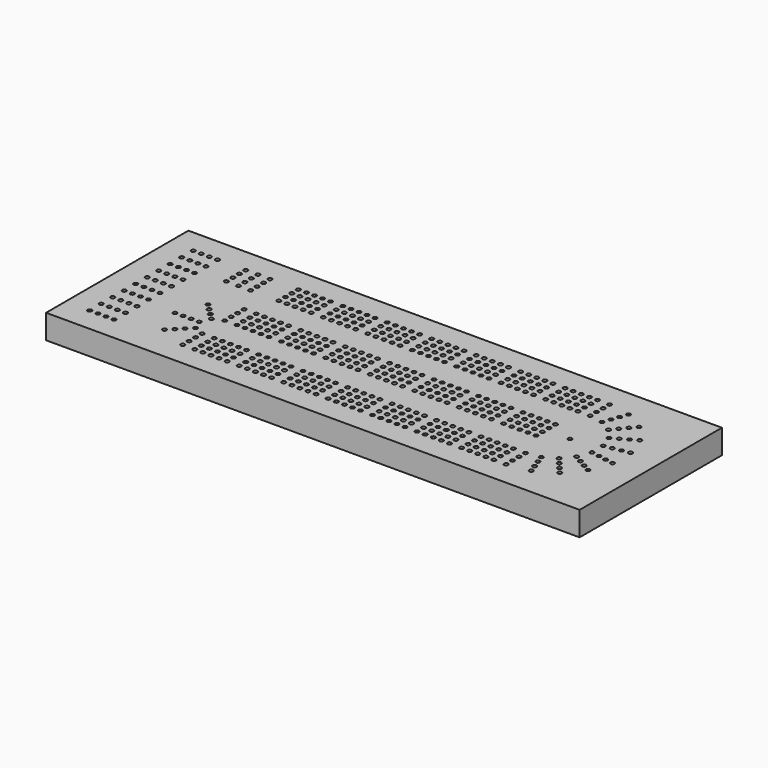
from build123d import *

# Parameters (mm, degrees)
F0_W     = 419.1
F0_H     = 139.7
F1_DEPTH = 19.05
F2_R     = 1.5875
F3_DEPTH = 12.7


with BuildPart() as f1:
    # F0 (on Top) → F1 (new body)
    with BuildSketch(Plane.XY):
        with Locations((209.55, 69.85)):
            Rectangle(F0_W, F0_H)
    extrude(amount=F1_DEPTH)

    # F2 (on face) → F3 (cut)
    with BuildSketch(Plane.XY.offset(19.05)):
        with BuildLine():
            ThreePointArc((20.6375, 120.65), (20.172532, 121.772532), (19.05, 122.2375))
            Line((19.05, 122.2375), (19.05, 120.65))
            Line((19.05, 120.65), (17.4625, 120.65))
            ThreePointArc((17.4625, 120.65), (19.05, 119.0625), (20.6375, 120.65))
        make_face()
        with BuildLine():
            Line((19.05, 120.65), (19.05, 122.2375))
            ThreePointArc((19.05, 122.2375), (17.927468, 121.772532), (17.4625, 120.65))
            Line((17.4625, 120.65), (19.05, 120.65))
        make_face()
        with Locations((19.05, 109.361111)):
            Circle(F2_R)
        with Locations((19.05, 98.072222)):
            Circle(F2_R)
        with Locations((19.05, 86.783333)):
            Circle(F2_R)
        with Locations((19.05, 75.494444)):
            Circle(F2_R)
        with Locations((19.05, 64.205556)):
            Circle(F2_R)
        with Locations((19.05, 52.916667)):
            Circle(F2_R)
        with Locations((19.05, 41.627778)):
            Circle(F2_R)
        with Locations((19.05, 30.338889)):
            Circle(F2_R)
        with Locations((19.05, 19.05)):
            Circle(F2_R)
        with Locations((25.4, 120.65)):
            Circle(F2_R)
        with Locations((25.4, 109.361111)):
            Circle(F2_R)
        with Locations((25.4, 98.072222)):
            Circle(F2_R)
        with Locations((25.4, 86.783333)):
            Circle(F2_R)
        with Locations((25.4, 75.494444)):
            Circle(F2_R)
        with Locations((25.4, 64.205556)):
            Circle(F2_R)
        with Locations((25.4, 52.916667)):
            Circle(F2_R)
        with Locations((25.4, 41.627778)):
            Circle(F2_R)
        with Locations((25.4, 30.338889)):
            Circle(F2_R)
        with Locations((25.4, 19.05)):
            Circle(F2_R)
        with Locations((31.75, 120.65)):
            Circle(F2_R)
        with Locations((31.75, 109.361111)):
            Circle(F2_R)
        with Locations((31.75, 98.072222)):
            Circle(F2_R)
        with Locations((31.75, 86.783333)):
            Circle(F2_R)
        with Locations((31.75, 75.494444)):
            Circle(F2_R)
        with Locations((31.75, 64.205556)):
            Circle(F2_R)
        with Locations((31.75, 52.916667)):
            Circle(F2_R)
        with Locations((31.75, 41.627778)):
            Circle(F2_R)
        with Locations((31.75, 30.338889)):
            Circle(F2_R)
        with Locations((31.75, 19.05)):
            Circle(F2_R)
        with Locations((38.1, 120.65)):
            Circle(F2_R)
        with Locations((38.1, 109.361111)):
            Circle(F2_R)
        with Locations((38.1, 98.072222)):
            Circle(F2_R)
        with Locations((38.1, 86.783333)):
            Circle(F2_R)
        with Locations((38.1, 75.494444)):
            Circle(F2_R)
        with Locations((38.1, 64.205556)):
            Circle(F2_R)
        with Locations((38.1, 52.916667)):
            Circle(F2_R)
        with Locations((38.1, 41.627778)):
            Circle(F2_R)
        with Locations((38.1, 30.338889)):
            Circle(F2_R)
        with Locations((38.1, 19.05)):
            Circle(F2_R)
        with Locations((60.325, 120.65)):
            Circle(F2_R)
        with Locations((60.325, 114.3)):
            Circle(F2_R)
        with Locations((60.325, 107.95)):
            Circle(F2_R)
        with Locations((60.325, 101.6)):
            Circle(F2_R)
        with Locations((69.85, 120.65)):
            Circle(F2_R)
        with Locations((69.85, 114.3)):
            Circle(F2_R)
        with Locations((69.85, 107.95)):
            Circle(F2_R)
        with Locations((69.85, 101.6)):
            Circle(F2_R)
        with Locations((79.375, 120.65)):
            Circle(F2_R)
        with Locations((79.375, 114.3)):
            Circle(F2_R)
        with Locations((79.375, 107.95)):
            Circle(F2_R)
        with Locations((79.375, 101.6)):
            Circle(F2_R)
        with Locations((101.6, 120.65)):
            Circle(F2_R)
        with Locations((101.6, 114.3)):
            Circle(F2_R)
        with Locations((101.6, 107.95)):
            Circle(F2_R)
        with Locations((101.6, 101.6)):
            Circle(F2_R)
        with Locations((107.95, 120.65)):
            Circle(F2_R)
        with Locations((107.95, 114.3)):
            Circle(F2_R)
        with Locations((107.95, 107.95)):
            Circle(F2_R)
        with Locations((107.95, 101.6)):
            Circle(F2_R)
        with Locations((114.3, 120.65)):
            Circle(F2_R)
        with Locations((114.3, 114.3)):
            Circle(F2_R)
        with Locations((114.3, 107.95)):
            Circle(F2_R)
        with Locations((114.3, 101.6)):
            Circle(F2_R)
        with Locations((120.65, 120.65)):
            Circle(F2_R)
        with Locations((120.65, 114.3)):
            Circle(F2_R)
        with Locations((120.65, 107.95)):
            Circle(F2_R)
        with Locations((120.65, 101.6)):
            Circle(F2_R)
        with Locations((127, 120.65)):
            Circle(F2_R)
        with Locations((127, 114.3)):
            Circle(F2_R)
        with Locations((127, 107.95)):
            Circle(F2_R)
        with Locations((127, 101.6)):
            Circle(F2_R)
        with Locations((149.225, 114.3)):
            Circle(F2_R)
        with Locations((136.525, 107.95)):
            Circle(F2_R)
        with Locations((161.925, 107.95)):
            Circle(F2_R)
        with Locations((149.225, 120.65)):
            Circle(F2_R)
        with Locations((161.925, 114.3)):
            Circle(F2_R)
        with Locations((161.925, 120.65)):
            Circle(F2_R)
        with Locations((142.875, 101.6)):
            Circle(F2_R)
        with Locations((155.575, 107.95)):
            Circle(F2_R)
        with Locations((142.875, 107.95)):
            Circle(F2_R)
        with Locations((155.575, 101.6)):
            Circle(F2_R)
        with Locations((155.575, 114.3)):
            Circle(F2_R)
        with Locations((149.225, 107.95)):
            Circle(F2_R)
        with Locations((149.225, 101.6)):
            Circle(F2_R)
        with Locations((161.925, 101.6)):
            Circle(F2_R)
        with Locations((136.525, 101.6)):
            Circle(F2_R)
        with Locations((155.575, 120.65)):
            Circle(F2_R)
        with Locations((142.875, 114.3)):
            Circle(F2_R)
        with Locations((136.525, 114.3)):
            Circle(F2_R)
        with Locations((142.875, 120.65)):
            Circle(F2_R)
        with Locations((136.525, 120.65)):
            Circle(F2_R)
        with Locations((184.15, 114.3)):
            Circle(F2_R)
        with Locations((171.45, 107.95)):
            Circle(F2_R)
        with Locations((196.85, 107.95)):
            Circle(F2_R)
        with Locations((184.15, 120.65)):
            Circle(F2_R)
        with Locations((196.85, 114.3)):
            Circle(F2_R)
        with Locations((196.85, 120.65)):
            Circle(F2_R)
        with Locations((177.8, 101.6)):
            Circle(F2_R)
        with Locations((190.5, 107.95)):
            Circle(F2_R)
        with Locations((177.8, 107.95)):
            Circle(F2_R)
        with Locations((190.5, 101.6)):
            Circle(F2_R)
        with Locations((190.5, 114.3)):
            Circle(F2_R)
        with Locations((184.15, 107.95)):
            Circle(F2_R)
        with Locations((184.15, 101.6)):
            Circle(F2_R)
        with Locations((196.85, 101.6)):
            Circle(F2_R)
        with Locations((171.45, 101.6)):
            Circle(F2_R)
        with Locations((190.5, 120.65)):
            Circle(F2_R)
        with Locations((177.8, 114.3)):
            Circle(F2_R)
        with Locations((171.45, 114.3)):
            Circle(F2_R)
        with Locations((177.8, 120.65)):
            Circle(F2_R)
        with Locations((171.45, 120.65)):
            Circle(F2_R)
        with Locations((219.075, 114.3)):
            Circle(F2_R)
        with Locations((206.375, 107.95)):
            Circle(F2_R)
        with Locations((231.775, 107.95)):
            Circle(F2_R)
        with Locations((219.075, 120.65)):
            Circle(F2_R)
        with Locations((231.775, 114.3)):
            Circle(F2_R)
        with Locations((231.775, 120.65)):
            Circle(F2_R)
        with Locations((212.725, 101.6)):
            Circle(F2_R)
        with Locations((225.425, 107.95)):
            Circle(F2_R)
        with Locations((212.725, 107.95)):
            Circle(F2_R)
        with Locations((225.425, 101.6)):
            Circle(F2_R)
        with Locations((225.425, 114.3)):
            Circle(F2_R)
        with Locations((219.075, 107.95)):
            Circle(F2_R)
        with Locations((219.075, 101.6)):
            Circle(F2_R)
        with Locations((231.775, 101.6)):
            Circle(F2_R)
        with Locations((206.375, 101.6)):
            Circle(F2_R)
        with Locations((225.425, 120.65)):
            Circle(F2_R)
        with Locations((212.725, 114.3)):
            Circle(F2_R)
        with Locations((206.375, 114.3)):
            Circle(F2_R)
        with Locations((212.725, 120.65)):
            Circle(F2_R)
        with Locations((206.375, 120.65)):
            Circle(F2_R)
        with Locations((254, 114.3)):
            Circle(F2_R)
        with Locations((241.3, 107.95)):
            Circle(F2_R)
        with Locations((266.7, 107.95)):
            Circle(F2_R)
        with Locations((254, 120.65)):
            Circle(F2_R)
        with Locations((266.7, 114.3)):
            Circle(F2_R)
        with Locations((266.7, 120.65)):
            Circle(F2_R)
        with Locations((247.65, 101.6)):
            Circle(F2_R)
        with Locations((260.35, 107.95)):
            Circle(F2_R)
        with Locations((247.65, 107.95)):
            Circle(F2_R)
        with Locations((260.35, 101.6)):
            Circle(F2_R)
        with Locations((260.35, 114.3)):
            Circle(F2_R)
        with Locations((254, 107.95)):
            Circle(F2_R)
        with Locations((254, 101.6)):
            Circle(F2_R)
        with Locations((266.7, 101.6)):
            Circle(F2_R)
        with Locations((241.3, 101.6)):
            Circle(F2_R)
        with Locations((260.35, 120.65)):
            Circle(F2_R)
        with Locations((247.65, 114.3)):
            Circle(F2_R)
        with Locations((241.3, 114.3)):
            Circle(F2_R)
        with Locations((247.65, 120.65)):
            Circle(F2_R)
        with Locations((241.3, 120.65)):
            Circle(F2_R)
        with Locations((288.925, 114.3)):
            Circle(F2_R)
        with Locations((276.225, 107.95)):
            Circle(F2_R)
        with Locations((301.625, 107.95)):
            Circle(F2_R)
        with Locations((288.925, 120.65)):
            Circle(F2_R)
        with Locations((301.625, 114.3)):
            Circle(F2_R)
        with Locations((301.625, 120.65)):
            Circle(F2_R)
        with Locations((282.575, 101.6)):
            Circle(F2_R)
        with Locations((295.275, 107.95)):
            Circle(F2_R)
        with Locations((282.575, 107.95)):
            Circle(F2_R)
        with Locations((295.275, 101.6)):
            Circle(F2_R)
        with Locations((295.275, 114.3)):
            Circle(F2_R)
        with Locations((288.925, 107.95)):
            Circle(F2_R)
        with Locations((288.925, 101.6)):
            Circle(F2_R)
        with Locations((301.625, 101.6)):
            Circle(F2_R)
        with Locations((276.225, 101.6)):
            Circle(F2_R)
        with Locations((295.275, 120.65)):
            Circle(F2_R)
        with Locations((282.575, 114.3)):
            Circle(F2_R)
        with Locations((276.225, 114.3)):
            Circle(F2_R)
        with Locations((282.575, 120.65)):
            Circle(F2_R)
        with Locations((276.225, 120.65)):
            Circle(F2_R)
        with Locations((323.85, 114.3)):
            Circle(F2_R)
        with Locations((311.15, 107.95)):
            Circle(F2_R)
        with Locations((336.55, 107.95)):
            Circle(F2_R)
        with Locations((323.85, 120.65)):
            Circle(F2_R)
        with Locations((336.55, 114.3)):
            Circle(F2_R)
        with Locations((336.55, 120.65)):
            Circle(F2_R)
        with Locations((317.5, 101.6)):
            Circle(F2_R)
        with Locations((330.2, 107.95)):
            Circle(F2_R)
        with Locations((317.5, 107.95)):
            Circle(F2_R)
        with Locations((330.2, 101.6)):
            Circle(F2_R)
        with Locations((330.2, 114.3)):
            Circle(F2_R)
        with Locations((323.85, 107.95)):
            Circle(F2_R)
        with Locations((323.85, 101.6)):
            Circle(F2_R)
        with Locations((336.55, 101.6)):
            Circle(F2_R)
        with Locations((311.15, 101.6)):
            Circle(F2_R)
        with Locations((330.2, 120.65)):
            Circle(F2_R)
        with Locations((317.5, 114.3)):
            Circle(F2_R)
        with Locations((311.15, 114.3)):
            Circle(F2_R)
        with Locations((317.5, 120.65)):
            Circle(F2_R)
        with Locations((311.15, 120.65)):
            Circle(F2_R)
        with Locations((219.075, 66.675)):
            Circle(F2_R)
        with Locations((171.45, 66.675)):
            Circle(F2_R)
        with Locations((155.575, 66.675)):
            Circle(F2_R)
        with Locations((317.5, 66.675)):
            Circle(F2_R)
        with Locations((276.225, 60.325)):
            Circle(F2_R)
        with Locations((266.7, 79.375)):
            Circle(F2_R)
        with Locations((155.575, 60.325)):
            Circle(F2_R)
        with Locations((120.65, 60.325)):
            Circle(F2_R)
        with Locations((260.35, 66.675)):
            Circle(F2_R)
        with Locations((231.775, 60.325)):
            Circle(F2_R)
        with Locations((184.15, 79.375)):
            Circle(F2_R)
        with Locations((330.2, 73.025)):
            Circle(F2_R)
        with Locations((282.575, 73.025)):
            Circle(F2_R)
        with Locations((288.925, 73.025)):
            Circle(F2_R)
        with Locations((120.65, 66.675)):
            Circle(F2_R)
        with Locations((219.075, 60.325)):
            Circle(F2_R)
        with Locations((196.85, 66.675)):
            Circle(F2_R)
        with Locations((142.875, 66.675)):
            Circle(F2_R)
        with Locations((330.2, 60.325)):
            Circle(F2_R)
        with Locations((295.275, 79.375)):
            Circle(F2_R)
        with Locations((155.575, 73.025)):
            Circle(F2_R)
        with Locations((206.375, 60.325)):
            Circle(F2_R)
        with Locations((196.85, 73.025)):
            Circle(F2_R)
        with Locations((323.85, 66.675)):
            Circle(F2_R)
        with Locations((276.225, 66.675)):
            Circle(F2_R)
        with Locations((149.225, 66.675)):
            Circle(F2_R)
        with Locations((260.35, 60.325)):
            Circle(F2_R)
        with Locations((196.85, 79.375)):
            Circle(F2_R)
        with Locations((323.85, 60.325)):
            Circle(F2_R)
        with Locations((301.625, 66.675)):
            Circle(F2_R)
        with Locations((149.225, 60.325)):
            Circle(F2_R)
        with Locations((127, 66.675)):
            Circle(F2_R)
        with Locations((101.6, 66.675)):
            Circle(F2_R)
        with Locations((177.8, 60.325)):
            Circle(F2_R)
        with Locations((336.55, 60.325)):
            Circle(F2_R)
        with Locations((288.925, 79.375)):
            Circle(F2_R)
        with Locations((254, 66.675)):
            Circle(F2_R)
        with Locations((206.375, 66.675)):
            Circle(F2_R)
        with Locations((190.5, 66.675)):
            Circle(F2_R)
        with Locations((311.15, 60.325)):
            Circle(F2_R)
        with Locations((161.925, 60.325)):
            Circle(F2_R)
        with Locations((127, 60.325)):
            Circle(F2_R)
        with Locations((101.6, 60.325)):
            Circle(F2_R)
        with Locations((330.2, 79.375)):
            Circle(F2_R)
        with Locations((301.625, 79.375)):
            Circle(F2_R)
        with Locations((136.525, 60.325)):
            Circle(F2_R)
        with Locations((254, 60.325)):
            Circle(F2_R)
        with Locations((231.775, 66.675)):
            Circle(F2_R)
        with Locations((177.8, 66.675)):
            Circle(F2_R)
        with Locations((155.575, 79.375)):
            Circle(F2_R)
        with Locations((266.7, 60.325)):
            Circle(F2_R)
        with Locations((219.075, 79.375)):
            Circle(F2_R)
        with Locations((190.5, 60.325)):
            Circle(F2_R)
        with Locations((282.575, 60.325)):
            Circle(F2_R)
        with Locations((241.3, 60.325)):
            Circle(F2_R)
        with Locations((231.775, 73.025)):
            Circle(F2_R)
        with Locations((190.5, 73.025)):
            Circle(F2_R)
        with Locations((311.15, 66.675)):
            Circle(F2_R)
        with Locations((295.275, 66.675)):
            Circle(F2_R)
        with Locations((136.525, 66.675)):
            Circle(F2_R)
        with Locations((107.95, 60.325)):
            Circle(F2_R)
        with Locations((260.35, 79.375)):
            Circle(F2_R)
        with Locations((231.775, 79.375)):
            Circle(F2_R)
        with Locations((184.15, 66.675)):
            Circle(F2_R)
        with Locations((336.55, 66.675)):
            Circle(F2_R)
        with Locations((282.575, 66.675)):
            Circle(F2_R)
        with Locations((161.925, 66.675)):
            Circle(F2_R)
        with Locations((212.725, 60.325)):
            Circle(F2_R)
        with Locations((184.15, 60.325)):
            Circle(F2_R)
        with Locations((323.85, 79.375)):
            Circle(F2_R)
        with Locations((225.425, 66.675)):
            Circle(F2_R)
        with Locations((196.85, 60.325)):
            Circle(F2_R)
        with Locations((149.225, 79.375)):
            Circle(F2_R)
        with Locations((336.55, 73.025)):
            Circle(F2_R)
        with Locations((295.275, 73.025)):
            Circle(F2_R)
        with Locations((241.3, 66.675)):
            Circle(F2_R)
        with Locations((114.3, 66.675)):
            Circle(F2_R)
        with Locations((212.725, 66.675)):
            Circle(F2_R)
        with Locations((171.45, 60.325)):
            Circle(F2_R)
        with Locations((336.55, 79.375)):
            Circle(F2_R)
        with Locations((288.925, 66.675)):
            Circle(F2_R)
        with Locations((266.7, 66.675)):
            Circle(F2_R)
        with Locations((190.5, 79.375)):
            Circle(F2_R)
        with Locations((161.925, 79.375)):
            Circle(F2_R)
        with Locations((317.5, 60.325)):
            Circle(F2_R)
        with Locations((288.925, 60.325)):
            Circle(F2_R)
        with Locations((254, 79.375)):
            Circle(F2_R)
        with Locations((330.2, 66.675)):
            Circle(F2_R)
        with Locations((301.625, 60.325)):
            Circle(F2_R)
        with Locations((266.7, 73.025)):
            Circle(F2_R)
        with Locations((120.65, 73.025)):
            Circle(F2_R)
        with Locations((171.45, 73.025)):
            Circle(F2_R)
        with Locations((247.65, 60.325)):
            Circle(F2_R)
        with Locations((127, 79.375)):
            Circle(F2_R)
        with Locations((247.65, 66.675)):
            Circle(F2_R)
        with Locations((127, 73.025)):
            Circle(F2_R)
        with Locations((225.425, 79.375)):
            Circle(F2_R)
        with Locations((282.575, 79.375)):
            Circle(F2_R)
        with Locations((260.35, 73.025)):
            Circle(F2_R)
        with Locations((212.725, 73.025)):
            Circle(F2_R)
        with Locations((219.075, 73.025)):
            Circle(F2_R)
        with Locations((301.625, 73.025)):
            Circle(F2_R)
        with Locations((212.725, 79.375)):
            Circle(F2_R)
        with Locations((323.85, 73.025)):
            Circle(F2_R)
        with Locations((142.875, 73.025)):
            Circle(F2_R)
        with Locations((149.225, 73.025)):
            Circle(F2_R)
        with Locations((107.95, 66.675)):
            Circle(F2_R)
        with Locations((247.65, 73.025)):
            Circle(F2_R)
        with Locations((254, 73.025)):
            Circle(F2_R)
        with Locations((295.275, 60.325)):
            Circle(F2_R)
        with Locations((114.3, 73.025)):
            Circle(F2_R)
        with Locations((241.3, 73.025)):
            Circle(F2_R)
        with Locations((161.925, 73.025)):
            Circle(F2_R)
        with Locations((114.3, 60.325)):
            Circle(F2_R)
        with Locations((225.425, 60.325)):
            Circle(F2_R)
        with Locations((120.65, 79.375)):
            Circle(F2_R)
        with Locations((225.425, 73.025)):
            Circle(F2_R)
        with Locations((177.8, 73.025)):
            Circle(F2_R)
        with Locations((184.15, 73.025)):
            Circle(F2_R)
        with Locations((142.875, 60.325)):
            Circle(F2_R)
        with Locations((177.8, 79.375)):
            Circle(F2_R)
        with Locations((171.45, 79.375)):
            Circle(F2_R)
        with Locations((276.225, 73.025)):
            Circle(F2_R)
        with Locations((101.6, 73.025)):
            Circle(F2_R)
        with Locations((206.375, 73.025)):
            Circle(F2_R)
        with Locations((276.225, 79.375)):
            Circle(F2_R)
        with Locations((107.95, 79.375)):
            Circle(F2_R)
        with Locations((107.95, 73.025)):
            Circle(F2_R)
        with Locations((317.5, 73.025)):
            Circle(F2_R)
        with Locations((206.375, 79.375)):
            Circle(F2_R)
        with Locations((311.15, 73.025)):
            Circle(F2_R)
        with Locations((136.525, 73.025)):
            Circle(F2_R)
        with Locations((317.5, 79.375)):
            Circle(F2_R)
        with Locations((142.875, 79.375)):
            Circle(F2_R)
        with Locations((114.3, 79.375)):
            Circle(F2_R)
        with Locations((311.15, 79.375)):
            Circle(F2_R)
        with Locations((247.65, 79.375)):
            Circle(F2_R)
        with Locations((241.3, 79.375)):
            Circle(F2_R)
        with Locations((101.6, 79.375)):
            Circle(F2_R)
        with Locations((136.525, 79.375)):
            Circle(F2_R)
        with Locations((219.075, 25.4)):
            Circle(F2_R)
        with Locations((171.45, 25.4)):
            Circle(F2_R)
        with Locations((155.575, 25.4)):
            Circle(F2_R)
        with Locations((317.5, 25.4)):
            Circle(F2_R)
        with Locations((276.225, 19.05)):
            Circle(F2_R)
        with Locations((266.7, 38.1)):
            Circle(F2_R)
        with Locations((155.575, 19.05)):
            Circle(F2_R)
        with Locations((120.65, 19.05)):
            Circle(F2_R)
        with Locations((260.35, 25.4)):
            Circle(F2_R)
        with Locations((231.775, 19.05)):
            Circle(F2_R)
        with Locations((184.15, 38.1)):
            Circle(F2_R)
        with Locations((330.2, 31.75)):
            Circle(F2_R)
        with Locations((282.575, 31.75)):
            Circle(F2_R)
        with Locations((288.925, 31.75)):
            Circle(F2_R)
        with Locations((120.65, 25.4)):
            Circle(F2_R)
        with Locations((219.075, 19.05)):
            Circle(F2_R)
        with Locations((196.85, 25.4)):
            Circle(F2_R)
        with Locations((142.875, 25.4)):
            Circle(F2_R)
        with Locations((330.2, 19.05)):
            Circle(F2_R)
        with Locations((295.275, 38.1)):
            Circle(F2_R)
        with Locations((155.575, 31.75)):
            Circle(F2_R)
        with Locations((206.375, 19.05)):
            Circle(F2_R)
        with Locations((196.85, 31.75)):
            Circle(F2_R)
        with Locations((323.85, 25.4)):
            Circle(F2_R)
        with Locations((276.225, 25.4)):
            Circle(F2_R)
        with Locations((149.225, 25.4)):
            Circle(F2_R)
        with Locations((260.35, 19.05)):
            Circle(F2_R)
        with Locations((196.85, 38.1)):
            Circle(F2_R)
        with Locations((323.85, 19.05)):
            Circle(F2_R)
        with Locations((301.625, 25.4)):
            Circle(F2_R)
        with Locations((149.225, 19.05)):
            Circle(F2_R)
        with Locations((127, 25.4)):
            Circle(F2_R)
        with Locations((101.6, 25.4)):
            Circle(F2_R)
        with Locations((177.8, 19.05)):
            Circle(F2_R)
        with Locations((336.55, 19.05)):
            Circle(F2_R)
        with Locations((288.925, 38.1)):
            Circle(F2_R)
        with Locations((254, 25.4)):
            Circle(F2_R)
        with Locations((206.375, 25.4)):
            Circle(F2_R)
        with Locations((190.5, 25.4)):
            Circle(F2_R)
        with Locations((311.15, 19.05)):
            Circle(F2_R)
        with Locations((161.925, 19.05)):
            Circle(F2_R)
        with Locations((127, 19.05)):
            Circle(F2_R)
        with Locations((101.6, 19.05)):
            Circle(F2_R)
        with Locations((330.2, 38.1)):
            Circle(F2_R)
        with Locations((301.625, 38.1)):
            Circle(F2_R)
        with Locations((136.525, 19.05)):
            Circle(F2_R)
        with Locations((254, 19.05)):
            Circle(F2_R)
        with Locations((231.775, 25.4)):
            Circle(F2_R)
        with Locations((177.8, 25.4)):
            Circle(F2_R)
        with Locations((155.575, 38.1)):
            Circle(F2_R)
        with Locations((266.7, 19.05)):
            Circle(F2_R)
        with Locations((219.075, 38.1)):
            Circle(F2_R)
        with Locations((190.5, 19.05)):
            Circle(F2_R)
        with Locations((282.575, 19.05)):
            Circle(F2_R)
        with Locations((241.3, 19.05)):
            Circle(F2_R)
        with Locations((231.775, 31.75)):
            Circle(F2_R)
        with Locations((190.5, 31.75)):
            Circle(F2_R)
        with Locations((311.15, 25.4)):
            Circle(F2_R)
        with Locations((295.275, 25.4)):
            Circle(F2_R)
        with Locations((136.525, 25.4)):
            Circle(F2_R)
        with Locations((107.95, 19.05)):
            Circle(F2_R)
        with Locations((260.35, 38.1)):
            Circle(F2_R)
        with Locations((231.775, 38.1)):
            Circle(F2_R)
        with Locations((184.15, 25.4)):
            Circle(F2_R)
        with Locations((336.55, 25.4)):
            Circle(F2_R)
        with Locations((282.575, 25.4)):
            Circle(F2_R)
        with Locations((161.925, 25.4)):
            Circle(F2_R)
        with Locations((212.725, 19.05)):
            Circle(F2_R)
        with Locations((184.15, 19.05)):
            Circle(F2_R)
        with Locations((323.85, 38.1)):
            Circle(F2_R)
        with Locations((225.425, 25.4)):
            Circle(F2_R)
        with Locations((196.85, 19.05)):
            Circle(F2_R)
        with Locations((149.225, 38.1)):
            Circle(F2_R)
        with Locations((336.55, 31.75)):
            Circle(F2_R)
        with Locations((295.275, 31.75)):
            Circle(F2_R)
        with Locations((241.3, 25.4)):
            Circle(F2_R)
        with Locations((114.3, 25.4)):
            Circle(F2_R)
        with Locations((212.725, 25.4)):
            Circle(F2_R)
        with Locations((171.45, 19.05)):
            Circle(F2_R)
        with Locations((336.55, 38.1)):
            Circle(F2_R)
        with Locations((288.925, 25.4)):
            Circle(F2_R)
        with Locations((266.7, 25.4)):
            Circle(F2_R)
        with Locations((190.5, 38.1)):
            Circle(F2_R)
        with Locations((161.925, 38.1)):
            Circle(F2_R)
        with Locations((317.5, 19.05)):
            Circle(F2_R)
        with Locations((288.925, 19.05)):
            Circle(F2_R)
        with Locations((254, 38.1)):
            Circle(F2_R)
        with Locations((330.2, 25.4)):
            Circle(F2_R)
        with Locations((301.625, 19.05)):
            Circle(F2_R)
        with Locations((266.7, 31.75)):
            Circle(F2_R)
        with Locations((120.65, 31.75)):
            Circle(F2_R)
        with Locations((171.45, 31.75)):
            Circle(F2_R)
        with Locations((247.65, 19.05)):
            Circle(F2_R)
        with Locations((127, 38.1)):
            Circle(F2_R)
        with Locations((247.65, 25.4)):
            Circle(F2_R)
        with Locations((127, 31.75)):
            Circle(F2_R)
        with Locations((225.425, 38.1)):
            Circle(F2_R)
        with Locations((282.575, 38.1)):
            Circle(F2_R)
        with Locations((260.35, 31.75)):
            Circle(F2_R)
        with Locations((212.725, 31.75)):
            Circle(F2_R)
        with Locations((219.075, 31.75)):
            Circle(F2_R)
        with Locations((301.625, 31.75)):
            Circle(F2_R)
        with Locations((212.725, 38.1)):
            Circle(F2_R)
        with Locations((323.85, 31.75)):
            Circle(F2_R)
        with Locations((142.875, 31.75)):
            Circle(F2_R)
        with Locations((149.225, 31.75)):
            Circle(F2_R)
        with Locations((107.95, 25.4)):
            Circle(F2_R)
        with Locations((247.65, 31.75)):
            Circle(F2_R)
        with Locations((254, 31.75)):
            Circle(F2_R)
        with Locations((295.275, 19.05)):
            Circle(F2_R)
        with Locations((114.3, 31.75)):
            Circle(F2_R)
        with Locations((241.3, 31.75)):
            Circle(F2_R)
        with Locations((161.925, 31.75)):
            Circle(F2_R)
        with Locations((114.3, 19.05)):
            Circle(F2_R)
        with Locations((225.425, 19.05)):
            Circle(F2_R)
        with Locations((120.65, 38.1)):
            Circle(F2_R)
        with Locations((225.425, 31.75)):
            Circle(F2_R)
        with Locations((177.8, 31.75)):
            Circle(F2_R)
        with Locations((184.15, 31.75)):
            Circle(F2_R)
        with Locations((142.875, 19.05)):
            Circle(F2_R)
        with Locations((177.8, 38.1)):
            Circle(F2_R)
        with Locations((171.45, 38.1)):
            Circle(F2_R)
        with Locations((276.225, 31.75)):
            Circle(F2_R)
        with Locations((101.6, 31.75)):
            Circle(F2_R)
        with Locations((206.375, 31.75)):
            Circle(F2_R)
        with Locations((276.225, 38.1)):
            Circle(F2_R)
        with Locations((107.95, 38.1)):
            Circle(F2_R)
        with Locations((107.95, 31.75)):
            Circle(F2_R)
        with Locations((317.5, 31.75)):
            Circle(F2_R)
        with Locations((206.375, 38.1)):
            Circle(F2_R)
        with Locations((311.15, 31.75)):
            Circle(F2_R)
        with Locations((136.525, 31.75)):
            Circle(F2_R)
        with Locations((317.5, 38.1)):
            Circle(F2_R)
        with Locations((142.875, 38.1)):
            Circle(F2_R)
        with Locations((114.3, 38.1)):
            Circle(F2_R)
        with Locations((311.15, 38.1)):
            Circle(F2_R)
        with Locations((247.65, 38.1)):
            Circle(F2_R)
        with Locations((241.3, 38.1)):
            Circle(F2_R)
        with Locations((101.6, 38.1)):
            Circle(F2_R)
        with Locations((136.525, 38.1)):
            Circle(F2_R)
        with BuildLine():
            ThreePointArc((346.075, 119.0625), (347.197532, 119.527468), (347.6625, 120.65))
            ThreePointArc((347.6625, 120.65), (344.952468, 121.772532), (346.075, 119.0625))
        make_face()
        with BuildLine():
            ThreePointArc((357.1875, 69.85), (355.6, 71.4375), (354.0125, 69.85))
            Line((354.0125, 69.85), (357.1875, 69.85))
        make_face()
        with BuildLine():
            Line((357.1875, 69.85), (354.0125, 69.85))
            ThreePointArc((354.0125, 69.85), (355.6, 68.2625), (357.1875, 69.85))
        make_face()
        with BuildLine():
            ThreePointArc((347.6625, 19.05), (347.197532, 20.172532), (346.075, 20.6375))
            Line((346.075, 20.6375), (346.075, 17.4625))
            ThreePointArc((346.075, 17.4625), (347.197532, 17.927468), (347.6625, 19.05))
        make_face()
        with BuildLine():
            Line((346.075, 17.4625), (346.075, 20.6375))
            ThreePointArc((346.075, 20.6375), (344.4875, 19.05), (346.075, 17.4625))
        make_face()
        with BuildLine():
            ThreePointArc((347.6625, 25.4), (347.197532, 26.522532), (346.075, 26.9875))
            Line((346.075, 26.9875), (346.075, 23.8125))
            ThreePointArc((346.075, 23.8125), (347.197532, 24.277468), (347.6625, 25.4))
        make_face()
        with BuildLine():
            Line((346.075, 23.8125), (346.075, 26.9875))
            ThreePointArc((346.075, 26.9875), (344.4875, 25.4), (346.075, 23.8125))
        make_face()
        with BuildLine():
            ThreePointArc((347.6625, 31.75), (347.197532, 32.872532), (346.075, 33.3375))
            Line((346.075, 33.3375), (346.075, 30.1625))
            ThreePointArc((346.075, 30.1625), (347.197532, 30.627468), (347.6625, 31.75))
        make_face()
        with BuildLine():
            Line((346.075, 30.1625), (346.075, 33.3375))
            ThreePointArc((346.075, 33.3375), (344.4875, 31.75), (346.075, 30.1625))
        make_face()
        with BuildLine():
            ThreePointArc((347.6625, 38.1), (347.197532, 39.222532), (346.075, 39.6875))
            Line((346.075, 39.6875), (346.075, 36.5125))
            ThreePointArc((346.075, 36.5125), (347.197532, 36.977468), (347.6625, 38.1))
        make_face()
        with BuildLine():
            Line((346.075, 36.5125), (346.075, 39.6875))
            ThreePointArc((346.075, 39.6875), (344.4875, 38.1), (346.075, 36.5125))
        make_face()
        with BuildLine():
            ThreePointArc((347.6625, 101.6), (347.197532, 102.722532), (346.075, 103.1875))
            Line((346.075, 103.1875), (346.075, 100.0125))
            ThreePointArc((346.075, 100.0125), (347.197532, 100.477468), (347.6625, 101.6))
        make_face()
        with BuildLine():
            Line((346.075, 100.0125), (346.075, 103.1875))
            ThreePointArc((346.075, 103.1875), (344.4875, 101.6), (346.075, 100.0125))
        make_face()
        with BuildLine():
            ThreePointArc((347.6625, 107.95), (347.197532, 109.072532), (346.075, 109.5375))
            Line((346.075, 109.5375), (346.075, 106.3625))
            ThreePointArc((346.075, 106.3625), (347.197532, 106.827468), (347.6625, 107.95))
        make_face()
        with BuildLine():
            Line((346.075, 106.3625), (346.075, 109.5375))
            ThreePointArc((346.075, 109.5375), (344.4875, 107.95), (346.075, 106.3625))
        make_face()
        with BuildLine():
            ThreePointArc((347.6625, 114.3), (347.197532, 115.422532), (346.075, 115.8875))
            Line((346.075, 115.8875), (346.075, 112.7125))
            ThreePointArc((346.075, 112.7125), (347.197532, 113.177468), (347.6625, 114.3))
        make_face()
        with BuildLine():
            Line((346.075, 112.7125), (346.075, 115.8875))
            ThreePointArc((346.075, 115.8875), (344.4875, 114.3), (346.075, 112.7125))
        make_face()
        with Locations((356.93414, 99.685241)):
            Circle(F2_R)
        with Locations((359.105967, 105.652289)):
            Circle(F2_R)
        with Locations((361.277795, 111.619337)):
            Circle(F2_R)
        with Locations((363.449623, 117.586385)):
            Circle(F2_R)
        with Locations((366.483507, 94.171911)):
            Circle(F2_R)
        with Locations((370.565208, 99.036293)):
            Circle(F2_R)
        with Locations((374.646909, 103.900675)):
            Circle(F2_R)
        with Locations((378.728611, 108.765058)):
            Circle(F2_R)
        with Locations((373.571307, 85.725)):
            Circle(F2_R)
        with Locations((379.070568, 88.9)):
            Circle(F2_R)
        with Locations((384.569829, 92.075)):
            Circle(F2_R)
        with Locations((390.069091, 95.25)):
            Circle(F2_R)
        with Locations((377.342646, 75.36333)):
            Circle(F2_R)
        with Locations((383.596175, 76.465996)):
            Circle(F2_R)
        with Locations((389.849705, 77.568661)):
            Circle(F2_R)
        with Locations((396.103234, 78.671327)):
            Circle(F2_R)
        with Locations((377.342646, 64.33667)):
            Circle(F2_R)
        with Locations((383.596175, 63.234004)):
            Circle(F2_R)
        with Locations((389.849705, 62.131339)):
            Circle(F2_R)
        with Locations((396.103234, 61.028673)):
            Circle(F2_R)
        with Locations((373.571307, 53.975)):
            Circle(F2_R)
        with Locations((379.070568, 50.8)):
            Circle(F2_R)
        with Locations((384.569829, 47.625)):
            Circle(F2_R)
        with Locations((390.069091, 44.45)):
            Circle(F2_R)
        with Locations((366.483507, 45.528089)):
            Circle(F2_R)
        with Locations((370.565208, 40.663707)):
            Circle(F2_R)
        with Locations((374.646909, 35.799325)):
            Circle(F2_R)
        with Locations((378.728611, 30.934942)):
            Circle(F2_R)
        with Locations((356.93414, 40.014759)):
            Circle(F2_R)
        with Locations((359.105967, 34.047711)):
            Circle(F2_R)
        with Locations((361.277795, 28.080663)):
            Circle(F2_R)
        with Locations((363.449623, 22.113615)):
            Circle(F2_R)
        with Locations((92.075, 19.05)):
            Circle(F2_R)
        with Locations((92.075, 25.4)):
            Circle(F2_R)
        with Locations((92.075, 31.75)):
            Circle(F2_R)
        with BuildLine():
            ThreePointArc((92.075, 39.6875), (90.952468, 36.977468), (93.6625, 38.1))
            ThreePointArc((93.6625, 38.1), (93.197532, 39.222532), (92.075, 39.6875))
        make_face()
        with Locations((84.217276, 41.354776)):
            Circle(F2_R)
        with Locations((79.727148, 36.864648)):
            Circle(F2_R)
        with Locations((75.23702, 32.37452)):
            Circle(F2_R)
        with Locations((70.746892, 27.884392)):
            Circle(F2_R)
        with Locations((80.9625, 49.2125)):
            Circle(F2_R)
        with Locations((74.6125, 49.2125)):
            Circle(F2_R)
        with Locations((68.2625, 49.2125)):
            Circle(F2_R)
        with Locations((61.9125, 49.2125)):
            Circle(F2_R)
        with Locations((84.217276, 57.070224)):
            Circle(F2_R)
        with Locations((79.727148, 61.560352)):
            Circle(F2_R)
        with Locations((75.23702, 66.05048)):
            Circle(F2_R)
        with Locations((70.746892, 70.540608)):
            Circle(F2_R)
        with Locations((92.075, 60.325)):
            Circle(F2_R)
        with Locations((92.075, 66.675)):
            Circle(F2_R)
        with Locations((92.075, 73.025)):
            Circle(F2_R)
        with Locations((92.075, 79.375)):
            Circle(F2_R)
    extrude(amount=-F3_DEPTH, mode=Mode.SUBTRACT)


solid = f1.part
